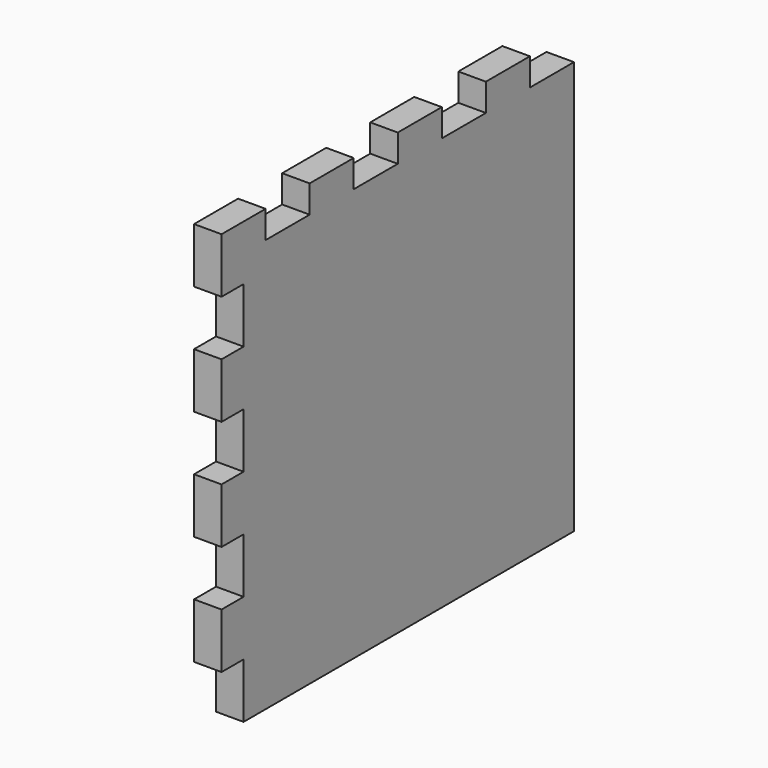
from build123d import *

# Parameters (mm, degrees)
F1_DEPTH = 9.525


with BuildPart() as f1:
    # F0 (on Right) → F1 (new body)
    with BuildSketch(Plane.YZ):
        Polygon((0, 19.05), (0, 0), (142.875, 0), (142.875, 142.875), (123.825, 142.875), (123.825, 152.4), (104.775, 152.4), (104.775, 142.875), (85.725, 142.875), (85.725, 152.4), (66.675, 152.4), (66.675, 142.875), (47.625, 142.875), (47.625, 152.4), (28.575, 152.4), (28.575, 142.875), (9.525, 142.875), (9.525, 152.4), (-9.525, 152.4), (-9.525, 133.35), (0, 133.35), (0, 114.3), (-9.525, 114.3), (-9.525, 95.25), (0, 95.25), (0, 76.2), (-9.525, 76.2), (-9.525, 57.15), (0, 57.15), (0, 38.1), (-9.525, 38.1), (-9.525, 19.05), align=None)
    extrude(amount=F1_DEPTH)


solid = f1.part
